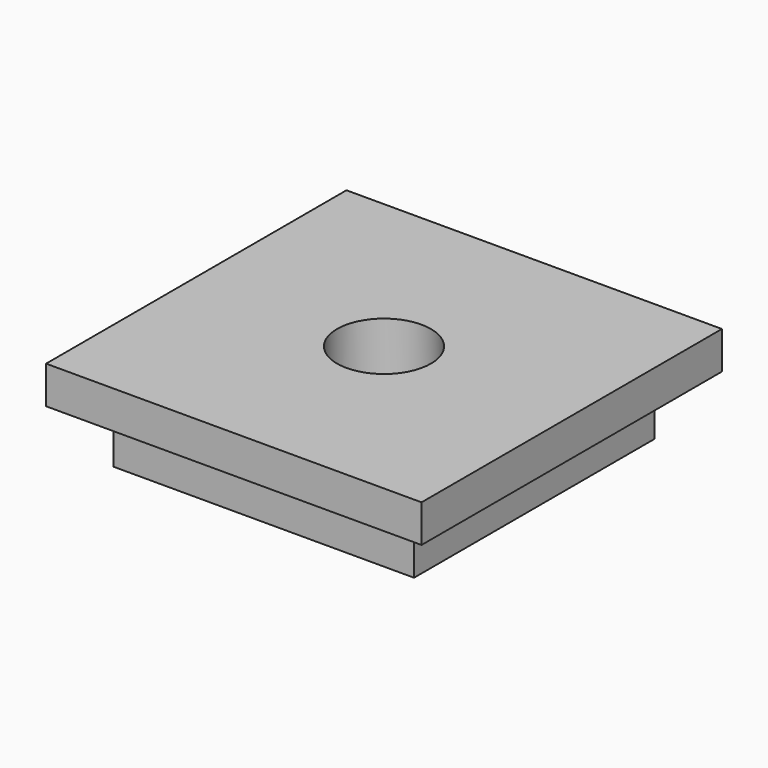
from build123d import *

# Parameters (mm, degrees)
F0_W     = 25.4
F0_H     = 25.4
F1_DEPTH = 2.54
F2_W     = 20.32
F2_H     = 20.32
F3_DEPTH = 3.81
F4_R     = 3.175
F5_DEPTH = 3.81


with BuildPart() as f1:
    # F0 (on Top) → F1 (new body)
    with BuildSketch(Plane.XY):
        Rectangle(F0_W, F0_H)
    extrude(amount=F1_DEPTH)

    # F2 (on face) → F3 (join)
    with BuildSketch(Plane(origin=(0, 0, 0), x_dir=(1, 0, 0), z_dir=(0, 0, -1))):
        Rectangle(F2_W, F2_H)
    extrude(amount=F3_DEPTH)

    # F4 (on face) → F5 (cut)
    with BuildSketch(Plane.XY.offset(2.54)):
        Circle(F4_R)
    extrude(amount=-F5_DEPTH, mode=Mode.SUBTRACT)


solid = f1.part
